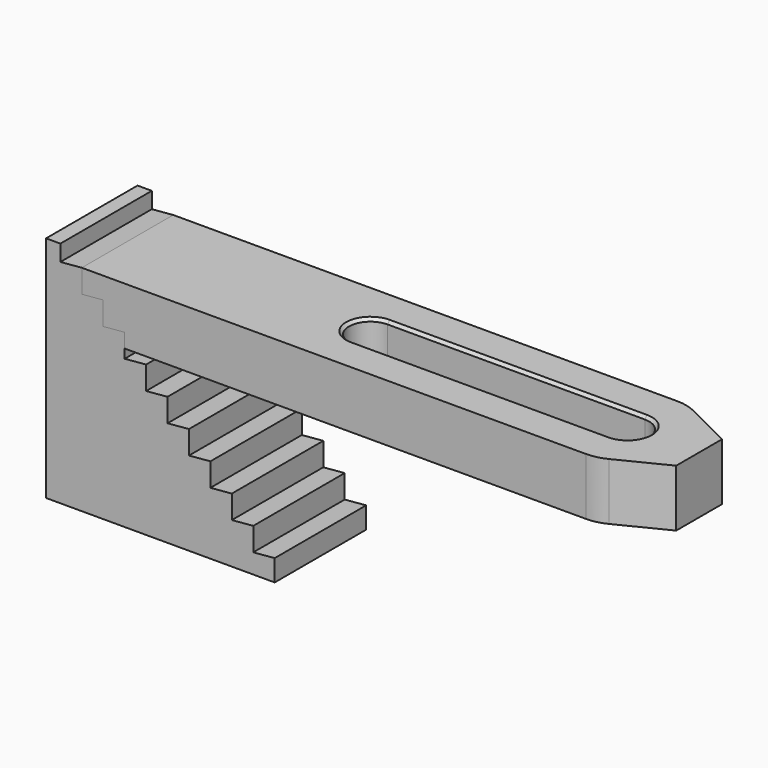
from build123d import *

# Parameters (mm, degrees)
F0_W      = 50.8
F0_H      = 25.4
F1_DEPTH  = 50.8
F8_DEPTH  = 25.401
F10_DEPTH = 12.6999998465
F4_DEPTH  = 47.626
F12_SIZE  = 0.635
F13_R     = 9.525


with BuildPart() as f1:
    # F0 (on Top) → F1 (new body)
    with BuildSketch(Plane.XY):
        Rectangle(F0_W, F0_H)
    extrude(amount=F1_DEPTH)

    # F7 (on offset) → F8 (cut, through all)
    with BuildSketch(Plane.XZ.offset(12.7)):
        Polygon((20.6375, 4.34583524), (25.4, 4.7625), (25.4, 68.2625), (-22.225, 68.2625), (-22.225, 47.20833524), (-17.4625, 47.625), (-17.4625, 42.44583524), (-12.7, 42.8625), (-12.7, 37.68333524), (-7.9375, 38.1), (-7.9375, 32.92083524), (-3.175, 33.3375), (-3.175, 28.15833524), (1.5875, 28.575), (1.5875, 23.39583524), (6.35, 23.8125), (6.35, 18.63333524), (11.1125, 19.05), (11.1125, 13.87083524), (15.875, 14.2875), (15.875, 9.10833524), (20.6375, 9.525), align=None)
    extrude(amount=-F8_DEPTH, mode=Mode.SUBTRACT)


with BuildPart() as f10:
    # F9 (on offset) → F10 (new body)
    with BuildSketch(Plane.XY.offset(47.625)):
        Polygon((96.8375, 12.7), (-17.4625, 12.7), (-17.4625, -12.7), (96.8375, -12.7), (109.5375, -6.35), (109.5375, 0), (109.5375, 6.35), align=None)
    extrude(amount=-F10_DEPTH)

    # F11 (on face) → F4 (cut, through all)
    with BuildSketch(Plane.XY.offset(47.625)):
        with BuildLine():
            ThreePointArc((36.5125, 4.7625), (31.75, 0), (36.5125, -4.7625))
            Line((36.5125, -4.7625), (93.6625, -4.7625))
            ThreePointArc((93.6625, -4.7625), (98.425, 0), (93.6625, 4.7625))
            Line((93.6625, 4.7625), (36.5125, 4.7625))
        make_face()
    extrude(amount=-F4_DEPTH, mode=Mode.SUBTRACT)

    # F5: cut F1
    add(f1.part, mode=Mode.SUBTRACT)

    # F12
    f12_edges = [f10.edges().sort_by_distance(p)[0] for p in [
        (65.0875, 4.7625, 47.625),
        (65.0875, -4.7625, 34.925),
    ]]
    chamfer(f12_edges, length=F12_SIZE)

    # F13
    f13_edges = [f10.edges().sort_by_distance(p)[0] for p in [
        (96.8375, -12.7, 41.275),
        (96.8375, 12.7, 41.275),
    ]]
    fillet(f13_edges, radius=F13_R)


solid = Compound([f1.part, f10.part])
